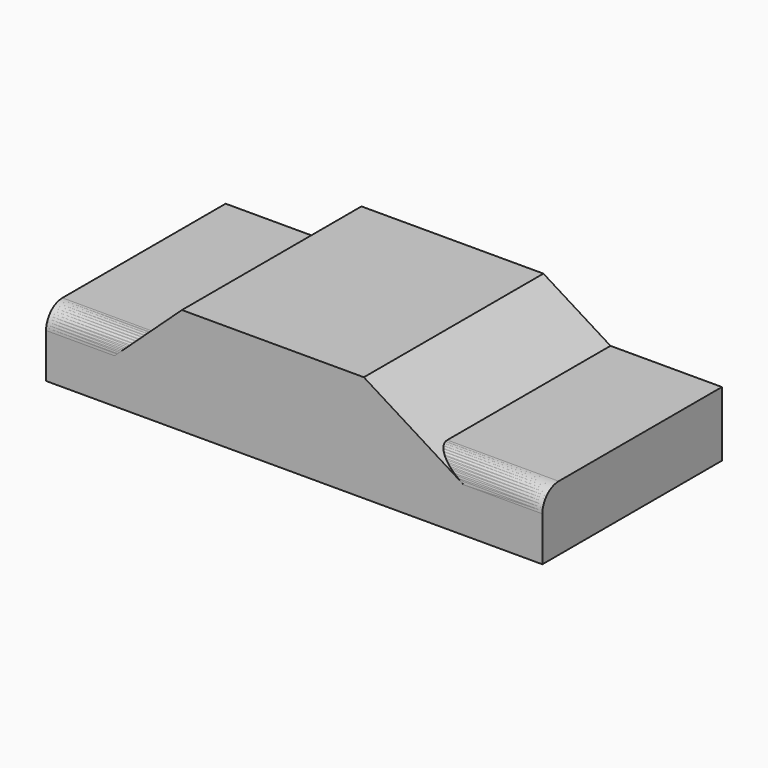
from build123d import *

# Parameters (mm, degrees)
F2_DEPTH = 55
F3_R     = 5
F4_R     = 5
F5_R     = 5


with BuildPart() as f2:
    # F1 (on face) → F2 (new body)
    with BuildSketch(Plane.XZ):
        with BuildLine():
            ThreePointArc((44.7364263237, 0), (51.6707431525, 6.576540475), (58.6050599813, 0))
            Line((58.6050599813, 0), (65.6081959605, 0))
            Line((65.6081959605, 0), (65.6081959605, 15.8953191712))
            Line((65.6081959605, 15.8953191712), (38.2981188595, 15.8953191712))
            Line((38.2981188595, 15.8953191712), (33.3908423781, 15.8953191712))
            Line((33.3908423781, 15.8953191712), (-29.3370001018, 15.8953191712))
            Line((-29.3370001018, 15.8953191712), (-33.8175594807, 15.8953191712))
            Line((-33.8175594807, 15.8953191712), (-56.007001549, 15.8953191712))
            Line((-56.007001549, 15.8953191712), (-56.007001549, 0))
            Line((-56.007001549, 0), (-50.2426885068, 0))
            ThreePointArc((-50.2426885068, 0), (-43.83370094, 7.1925667007), (-37.4247133732, 0))
            Line((-37.4247133732, 0), (44.7364263237, 0))
        make_face()
    extrude(amount=F2_DEPTH)

    # F4
    f4_edges = [f2.edges().sort_by_distance(p)[0] for p in [
        (4.800597, -55, 15.895319),
    ]]
    fillet(f4_edges, radius=F4_R)


with BuildPart() as f2b:
    # F0 (on Front) → F2, piece 2 (new body)
    with BuildSketch(Plane.XZ):
        Polygon((-56.007001549, 15.8953191712), (-56.007001549, 0), (65.6081959605, 0), (65.6081959605, 15.8953191712), (38.2981188595, 15.8953191712), (33.3908423781, 15.8953191712), (-29.3370001018, 15.8953191712), (-33.8175594807, 15.8953191712), align=None)
        Polygon((-22.7228403091, 26.1366013438), (-33.8175594807, 15.8953191712), (-29.3370001018, 15.8953191712), (33.3908423781, 15.8953191712), (38.2981188595, 15.8953191712), (21.8694005162, 26.1366013438), align=None)
    extrude(amount=F2_DEPTH)

    # F3
    f3_edges = [f2b.edges().sort_by_distance(p)[0] for p in [
        (51.953157, -55, 15.895319),
    ]]
    fillet(f3_edges, radius=F3_R)

    # F5
    f5_edges = [f2b.edges().sort_by_distance(p)[0] for p in [
        (-44.912281, -55, 15.895319),
    ]]
    fillet(f5_edges, radius=F5_R)


solid = Compound([f2.part, f2b.part])
